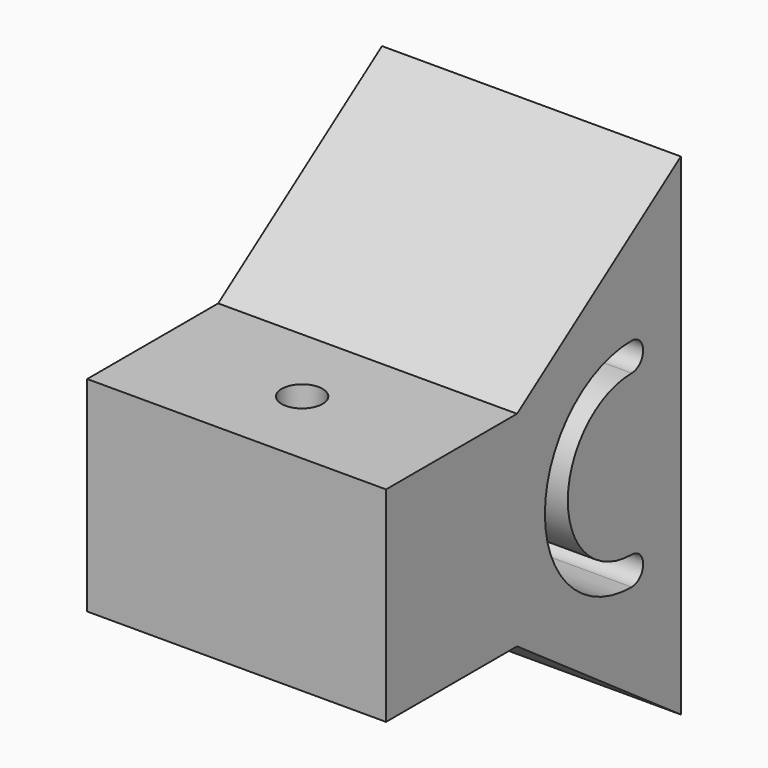
from build123d import *

# Parameters (mm, degrees)
F0_W      = 73
F0_H      = 120
F1_DEPTH  = 50
F3_DEPTH  = 80
F5_DEPTH  = 80
F6_R      = 3.5
F7_DEPTH  = 5
F8_W      = 40
F8_H      = 50
F9_DEPTH  = 73
F10_R     = 5
F11_DEPTH = 80


with BuildPart() as f1:
    # F0 (on Front) → F1 (new body)
    with BuildSketch(Plane.XZ):
        Rectangle(F0_W, F0_H)
    extrude(amount=F1_DEPTH)

    # F2 (on face) → F3 (cut)
    with BuildSketch(Plane(origin=(-36.5, 0, 0), x_dir=(0, -1, 0), z_dir=(-1, 0, 0))):
        with BuildLine():
            ThreePointArc((14.9997541366, 19.5), (34.4997541366, 0), (14.9997541366, -19.5))
            ThreePointArc((14.9997541366, -19.5), (11.4997541366, -23), (14.9997541366, -26.5))
            ThreePointArc((14.9997541366, -26.5), (41.4997541366, 0), (14.9997541366, 26.5))
            ThreePointArc((14.9997541366, 26.5), (11.4997541366, 23), (14.9997541366, 19.5))
        make_face()
    extrude(amount=-F3_DEPTH, mode=Mode.SUBTRACT)

    # F4 (on face) → F5 (cut)
    with BuildSketch(Plane(origin=(-36.5, 0, 0), x_dir=(0, -1, 0), z_dir=(-1, 0, 0))):
        Polygon((50, 60), (0, 60), (50, 25), align=None)
        Polygon((50, -25), (0, -60), (50, -60), align=None)
    extrude(amount=-F5_DEPTH, mode=Mode.SUBTRACT)

    # F6 (on face) → F7 (cut)
    with BuildSketch(Plane(origin=(0, 0, 0), x_dir=(-1, 0, 0), z_dir=(0, 1, 0))):
        with Locations((-21.5, 40)):
            Circle(F6_R)
        with Locations((21.5, 40)):
            Circle(F6_R)
        with Locations((-21.5, -40)):
            Circle(F6_R)
        with Locations((21.5, -40)):
            Circle(F6_R)
    extrude(amount=-F7_DEPTH, mode=Mode.SUBTRACT)

    # F8 (on face) → F9 (join)
    with BuildSketch(Plane(origin=(-36.5, 0, 0), x_dir=(0, -1, 0), z_dir=(-1, 0, 0))):
        with Locations((70, 0)):
            Rectangle(F8_W, F8_H)
    extrude(amount=-F9_DEPTH)

    # F10 (on face) → F11 (cut)
    with BuildSketch(Plane.XY.offset(25)):
        with Locations((0, -70)):
            Circle(F10_R)
    extrude(amount=-F11_DEPTH, mode=Mode.SUBTRACT)


solid = f1.part
